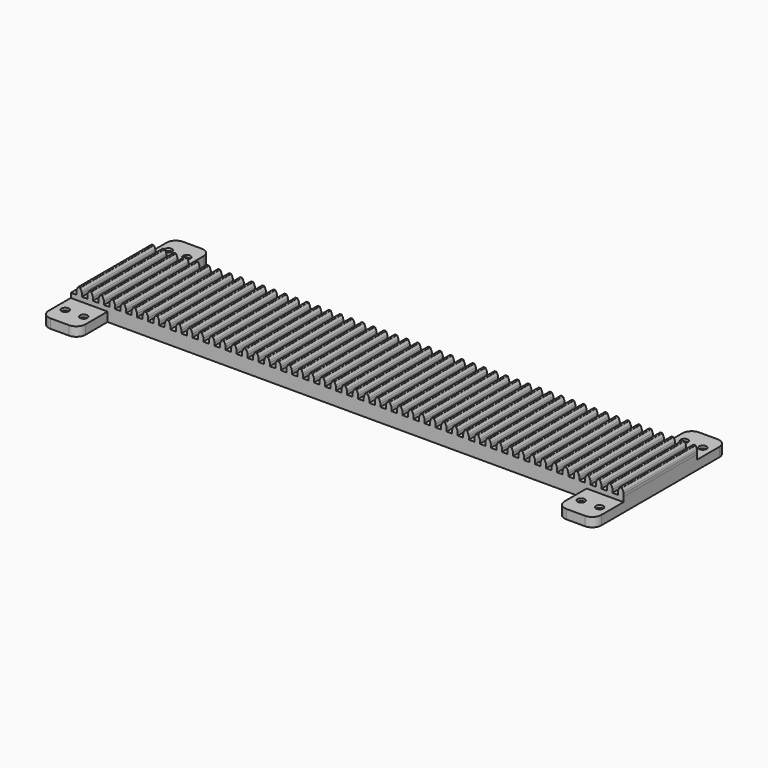
from build123d import *

# Parameters (mm, degrees)
F0_W            = 50.8
F0_H            = 12.7
F1_DEPTH        = 127
F2_W            = 50.8
F2_H            = 12.7
F3_DEPTH        = 50.8
F4_W            = 50.8
F4_H            = 12.7
F5_DEPTH        = 50.8
F6_R            = 12.7
F11_D           = 4.826
F11_CBORE_D     = 10.16
F11_CBORE_DEPTH = 3.3528


with BuildPart() as f1:
    # F0 (on Front) → F1 (new body)
    with BuildSketch(Plane.XZ):
        with BuildLine():
            ThreePointArc((-10.287724, 77.96885), (-11.171676, 76.231681), (-11.947368, 74.443546))
            ThreePointArc((-11.947368, 74.443546), (-12.281947, 73.300054), (-12.397032, 72.11419))
            Line((-12.397032, 72.11419), (-12.40804, 68.172183))
            Line((-12.40804, 68.172183), (-4.78801, 68.172183))
            Line((-4.78801, 68.172183), (-4.777056, 72.094743))
            ThreePointArc((-4.777056, 72.094743), (-4.88921, 73.300784), (-5.228323, 74.463589))
            ThreePointArc((-5.228323, 74.463589), (-6.000617, 76.241399), (-6.879955, 77.96877))
            ThreePointArc((-6.879955, 77.96877), (-7.16919, 78.2678), (-7.570434, 78.377704))
            Line((-7.570434, 78.377704), (-9.597244, 78.377783))
            ThreePointArc((-9.597244, 78.377783), (-9.998489, 78.26788), (-10.287724, 77.96885))
        make_face()
        with BuildLine():
            Line((-4.78801, 68.172183), (-12.40804, 68.172183))
            Line((-12.40804, 68.172183), (-20.02804, 68.172183))
            Line((-20.02804, 68.172183), (-20.02804, 49.122183))
            Line((-20.02804, 49.122183), (691.17199, 49.122183))
            Line((691.17199, 49.122183), (691.17199, 61.822183))
            Line((691.17199, 61.822183), (741.97199, 61.822183))
            Line((741.97199, 61.822183), (741.97199, 68.172183))
            Line((741.97199, 68.172183), (741.982944, 72.094743))
            ThreePointArc((741.982944, 72.094743), (741.87079, 73.300784), (741.531677, 74.463589))
            ThreePointArc((741.531677, 74.463589), (740.759383, 76.241399), (739.880045, 77.96877))
            ThreePointArc((739.880045, 77.96877), (739.59081, 78.2678), (739.189566, 78.377704))
            Line((739.189566, 78.377704), (737.162756, 78.377783))
            ThreePointArc((737.162756, 78.377783), (736.761511, 78.26788), (736.472276, 77.96885))
            ThreePointArc((736.472276, 77.96885), (735.588324, 76.231681), (734.812632, 74.443546))
            ThreePointArc((734.812632, 74.443546), (734.478053, 73.300054), (734.362968, 72.11419))
            Line((734.362968, 72.11419), (734.35196, 68.172183))
            Line((734.35196, 68.172183), (726.73199, 68.172183))
            Line((726.73199, 68.172183), (726.742944, 72.094743))
            ThreePointArc((726.742944, 72.094743), (726.63079, 73.300784), (726.291677, 74.463589))
            ThreePointArc((726.291677, 74.463589), (725.519383, 76.241399), (724.640045, 77.96877))
            ThreePointArc((724.640045, 77.96877), (724.35081, 78.2678), (723.949566, 78.377704))
            Line((723.949566, 78.377704), (721.922756, 78.377783))
            ThreePointArc((721.922756, 78.377783), (721.521511, 78.26788), (721.232276, 77.96885))
            ThreePointArc((721.232276, 77.96885), (720.348324, 76.231681), (719.572632, 74.443546))
            ThreePointArc((719.572632, 74.443546), (719.238053, 73.300054), (719.122968, 72.11419))
            Line((719.122968, 72.11419), (719.11196, 68.172183))
            Line((719.11196, 68.172183), (711.49199, 68.172183))
            Line((711.49199, 68.172183), (703.87196, 68.172183))
            Line((703.87196, 68.172183), (696.25199, 68.172183))
            Line((696.25199, 68.172183), (688.63196, 68.172183))
            Line((688.63196, 68.172183), (681.01199, 68.172183))
            Line((681.01199, 68.172183), (673.39196, 68.172183))
            Line((673.39196, 68.172183), (665.77199, 68.172183))
            Line((665.77199, 68.172183), (658.15196, 68.172183))
            Line((658.15196, 68.172183), (650.53199, 68.172183))
            Line((650.53199, 68.172183), (642.91196, 68.172183))
            Line((642.91196, 68.172183), (635.29199, 68.172183))
            Line((635.29199, 68.172183), (627.67196, 68.172183))
            Line((627.67196, 68.172183), (620.05199, 68.172183))
            Line((620.05199, 68.172183), (612.43196, 68.172183))
            Line((612.43196, 68.172183), (604.81199, 68.172183))
            Line((604.81199, 68.172183), (597.19196, 68.172183))
            Line((597.19196, 68.172183), (589.57199, 68.172183))
            Line((589.57199, 68.172183), (581.95196, 68.172183))
            Line((581.95196, 68.172183), (574.33199, 68.172183))
            Line((574.33199, 68.172183), (566.71196, 68.172183))
            Line((566.71196, 68.172183), (559.09199, 68.172183))
            Line((559.09199, 68.172183), (551.47196, 68.172183))
            Line((551.47196, 68.172183), (543.85199, 68.172183))
            Line((543.85199, 68.172183), (536.23196, 68.172183))
            Line((536.23196, 68.172183), (528.61199, 68.172183))
            Line((528.61199, 68.172183), (520.99196, 68.172183))
            Line((520.99196, 68.172183), (513.37199, 68.172183))
            Line((513.37199, 68.172183), (505.75196, 68.172183))
            Line((505.75196, 68.172183), (498.13199, 68.172183))
            Line((498.13199, 68.172183), (490.51196, 68.172183))
            Line((490.51196, 68.172183), (482.89199, 68.172183))
            Line((482.89199, 68.172183), (475.27196, 68.172183))
            Line((475.27196, 68.172183), (467.65199, 68.172183))
            Line((467.65199, 68.172183), (460.03196, 68.172183))
            Line((460.03196, 68.172183), (452.41199, 68.172183))
            Line((452.41199, 68.172183), (444.79196, 68.172183))
            Line((444.79196, 68.172183), (437.17199, 68.172183))
            Line((437.17199, 68.172183), (429.55196, 68.172183))
            Line((429.55196, 68.172183), (421.93199, 68.172183))
            Line((421.93199, 68.172183), (414.31196, 68.172183))
            Line((414.31196, 68.172183), (406.69199, 68.172183))
            Line((406.69199, 68.172183), (399.07196, 68.172183))
            Line((399.07196, 68.172183), (391.45199, 68.172183))
            Line((391.45199, 68.172183), (383.83196, 68.172183))
            Line((383.83196, 68.172183), (376.21199, 68.172183))
            Line((376.21199, 68.172183), (368.59196, 68.172183))
            Line((368.59196, 68.172183), (360.97199, 68.172183))
            Line((360.97199, 68.172183), (353.35196, 68.172183))
            Line((353.35196, 68.172183), (345.73199, 68.172183))
            Line((345.73199, 68.172183), (338.11196, 68.172183))
            Line((338.11196, 68.172183), (330.49199, 68.172183))
            Line((330.49199, 68.172183), (322.87196, 68.172183))
            Line((322.87196, 68.172183), (315.25199, 68.172183))
            Line((315.25199, 68.172183), (307.63196, 68.172183))
            Line((307.63196, 68.172183), (300.01199, 68.172183))
            Line((300.01199, 68.172183), (292.39196, 68.172183))
            Line((292.39196, 68.172183), (284.77199, 68.172183))
            Line((284.77199, 68.172183), (277.15196, 68.172183))
            Line((277.15196, 68.172183), (269.53199, 68.172183))
            Line((269.53199, 68.172183), (261.91196, 68.172183))
            Line((261.91196, 68.172183), (254.29199, 68.172183))
            Line((254.29199, 68.172183), (246.67196, 68.172183))
            Line((246.67196, 68.172183), (239.05199, 68.172183))
            Line((239.05199, 68.172183), (231.43196, 68.172183))
            Line((231.43196, 68.172183), (223.81199, 68.172183))
            Line((223.81199, 68.172183), (216.19196, 68.172183))
            Line((216.19196, 68.172183), (208.57199, 68.172183))
            Line((208.57199, 68.172183), (200.95196, 68.172183))
            Line((200.95196, 68.172183), (193.33199, 68.172183))
            Line((193.33199, 68.172183), (185.71196, 68.172183))
            Line((185.71196, 68.172183), (178.09199, 68.172183))
            Line((178.09199, 68.172183), (170.47196, 68.172183))
            Line((170.47196, 68.172183), (162.85199, 68.172183))
            Line((162.85199, 68.172183), (155.23196, 68.172183))
            Line((155.23196, 68.172183), (147.61199, 68.172183))
            Line((147.61199, 68.172183), (139.99196, 68.172183))
            Line((139.99196, 68.172183), (132.37199, 68.172183))
            Line((132.37199, 68.172183), (124.75196, 68.172183))
            Line((124.75196, 68.172183), (117.13199, 68.172183))
            Line((117.13199, 68.172183), (109.51196, 68.172183))
            Line((109.51196, 68.172183), (101.89199, 68.172183))
            Line((101.89199, 68.172183), (94.27196, 68.172183))
            Line((94.27196, 68.172183), (86.65199, 68.172183))
            Line((86.65199, 68.172183), (79.03196, 68.172183))
            Line((79.03196, 68.172183), (71.41199, 68.172183))
            Line((71.41199, 68.172183), (63.79196, 68.172183))
            Line((63.79196, 68.172183), (56.17199, 68.172183))
            Line((56.17199, 68.172183), (48.55196, 68.172183))
            Line((48.55196, 68.172183), (40.93199, 68.172183))
            Line((40.93199, 68.172183), (33.31196, 68.172183))
            Line((33.31196, 68.172183), (25.69199, 68.172183))
            Line((25.69199, 68.172183), (18.07196, 68.172183))
            Line((18.07196, 68.172183), (10.45199, 68.172183))
            Line((10.45199, 68.172183), (2.83196, 68.172183))
            Line((2.83196, 68.172183), (-4.78801, 68.172183))
        make_face()
        with BuildLine():
            Line((2.842968, 72.11419), (2.83196, 68.172183))
            Line((2.83196, 68.172183), (10.45199, 68.172183))
            Line((10.45199, 68.172183), (10.462944, 72.094743))
            ThreePointArc((10.462944, 72.094743), (10.35079, 73.300784), (10.011677, 74.463589))
            ThreePointArc((10.011677, 74.463589), (9.239383, 76.241399), (8.360045, 77.96877))
            ThreePointArc((8.360045, 77.96877), (8.07081, 78.2678), (7.669566, 78.377704))
            Line((7.669566, 78.377704), (5.642756, 78.377783))
            ThreePointArc((5.642756, 78.377783), (5.241511, 78.26788), (4.952276, 77.96885))
            ThreePointArc((4.952276, 77.96885), (4.068324, 76.231681), (3.292632, 74.443546))
            ThreePointArc((3.292632, 74.443546), (2.958053, 73.300054), (2.842968, 72.11419))
        make_face()
        with Locations((716.57199, 55.472183)):
            Rectangle(F0_W, F0_H)
        with BuildLine():
            Line((18.082968, 72.11419), (18.07196, 68.172183))
            Line((18.07196, 68.172183), (25.69199, 68.172183))
            Line((25.69199, 68.172183), (25.702944, 72.094743))
            ThreePointArc((25.702944, 72.094743), (25.59079, 73.300784), (25.251677, 74.463589))
            ThreePointArc((25.251677, 74.463589), (24.479383, 76.241399), (23.600045, 77.96877))
            ThreePointArc((23.600045, 77.96877), (23.31081, 78.2678), (22.909566, 78.377704))
            Line((22.909566, 78.377704), (20.882756, 78.377783))
            ThreePointArc((20.882756, 78.377783), (20.481511, 78.26788), (20.192276, 77.96885))
            ThreePointArc((20.192276, 77.96885), (19.308324, 76.231681), (18.532632, 74.443546))
            ThreePointArc((18.532632, 74.443546), (18.198053, 73.300054), (18.082968, 72.11419))
        make_face()
        with BuildLine():
            Line((33.322968, 72.11419), (33.31196, 68.172183))
            Line((33.31196, 68.172183), (40.93199, 68.172183))
            Line((40.93199, 68.172183), (40.942944, 72.094743))
            ThreePointArc((40.942944, 72.094743), (40.83079, 73.300784), (40.491677, 74.463589))
            ThreePointArc((40.491677, 74.463589), (39.719383, 76.241399), (38.840045, 77.96877))
            ThreePointArc((38.840045, 77.96877), (38.55081, 78.2678), (38.149566, 78.377704))
            Line((38.149566, 78.377704), (36.122756, 78.377783))
            ThreePointArc((36.122756, 78.377783), (35.721511, 78.26788), (35.432276, 77.96885))
            ThreePointArc((35.432276, 77.96885), (34.548324, 76.231681), (33.772632, 74.443546))
            ThreePointArc((33.772632, 74.443546), (33.438053, 73.300054), (33.322968, 72.11419))
        make_face()
        with BuildLine():
            Line((48.562968, 72.11419), (48.55196, 68.172183))
            Line((48.55196, 68.172183), (56.17199, 68.172183))
            Line((56.17199, 68.172183), (56.182944, 72.094743))
            ThreePointArc((56.182944, 72.094743), (56.07079, 73.300784), (55.731677, 74.463589))
            ThreePointArc((55.731677, 74.463589), (54.959383, 76.241399), (54.080045, 77.96877))
            ThreePointArc((54.080045, 77.96877), (53.79081, 78.2678), (53.389566, 78.377704))
            Line((53.389566, 78.377704), (51.362756, 78.377783))
            ThreePointArc((51.362756, 78.377783), (50.961511, 78.26788), (50.672276, 77.96885))
            ThreePointArc((50.672276, 77.96885), (49.788324, 76.231681), (49.012632, 74.443546))
            ThreePointArc((49.012632, 74.443546), (48.678053, 73.300054), (48.562968, 72.11419))
        make_face()
        with BuildLine():
            Line((63.802968, 72.11419), (63.79196, 68.172183))
            Line((63.79196, 68.172183), (71.41199, 68.172183))
            Line((71.41199, 68.172183), (71.422944, 72.094743))
            ThreePointArc((71.422944, 72.094743), (71.31079, 73.300784), (70.971677, 74.463589))
            ThreePointArc((70.971677, 74.463589), (70.199383, 76.241399), (69.320045, 77.96877))
            ThreePointArc((69.320045, 77.96877), (69.03081, 78.2678), (68.629566, 78.377704))
            Line((68.629566, 78.377704), (66.602756, 78.377783))
            ThreePointArc((66.602756, 78.377783), (66.201511, 78.26788), (65.912276, 77.96885))
            ThreePointArc((65.912276, 77.96885), (65.028324, 76.231681), (64.252632, 74.443546))
            ThreePointArc((64.252632, 74.443546), (63.918053, 73.300054), (63.802968, 72.11419))
        make_face()
        with BuildLine():
            Line((79.042968, 72.11419), (79.03196, 68.172183))
            Line((79.03196, 68.172183), (86.65199, 68.172183))
            Line((86.65199, 68.172183), (86.662944, 72.094743))
            ThreePointArc((86.662944, 72.094743), (86.55079, 73.300784), (86.211677, 74.463589))
            ThreePointArc((86.211677, 74.463589), (85.439383, 76.241399), (84.560045, 77.96877))
            ThreePointArc((84.560045, 77.96877), (84.27081, 78.2678), (83.869566, 78.377704))
            Line((83.869566, 78.377704), (81.842756, 78.377783))
            ThreePointArc((81.842756, 78.377783), (81.441511, 78.26788), (81.152276, 77.96885))
            ThreePointArc((81.152276, 77.96885), (80.268324, 76.231681), (79.492632, 74.443546))
            ThreePointArc((79.492632, 74.443546), (79.158053, 73.300054), (79.042968, 72.11419))
        make_face()
        with BuildLine():
            Line((94.282968, 72.11419), (94.27196, 68.172183))
            Line((94.27196, 68.172183), (101.89199, 68.172183))
            Line((101.89199, 68.172183), (101.902944, 72.094743))
            ThreePointArc((101.902944, 72.094743), (101.79079, 73.300784), (101.451677, 74.463589))
            ThreePointArc((101.451677, 74.463589), (100.679383, 76.241399), (99.800045, 77.96877))
            ThreePointArc((99.800045, 77.96877), (99.51081, 78.2678), (99.109566, 78.377704))
            Line((99.109566, 78.377704), (97.082756, 78.377783))
            ThreePointArc((97.082756, 78.377783), (96.681511, 78.26788), (96.392276, 77.96885))
            ThreePointArc((96.392276, 77.96885), (95.508324, 76.231681), (94.732632, 74.443546))
            ThreePointArc((94.732632, 74.443546), (94.398053, 73.300054), (94.282968, 72.11419))
        make_face()
        with BuildLine():
            Line((109.522968, 72.11419), (109.51196, 68.172183))
            Line((109.51196, 68.172183), (117.13199, 68.172183))
            Line((117.13199, 68.172183), (117.142944, 72.094743))
            ThreePointArc((117.142944, 72.094743), (117.03079, 73.300784), (116.691677, 74.463589))
            ThreePointArc((116.691677, 74.463589), (115.919383, 76.241399), (115.040045, 77.96877))
            ThreePointArc((115.040045, 77.96877), (114.75081, 78.2678), (114.349566, 78.377704))
            Line((114.349566, 78.377704), (112.322756, 78.377783))
            ThreePointArc((112.322756, 78.377783), (111.921511, 78.26788), (111.632276, 77.96885))
            ThreePointArc((111.632276, 77.96885), (110.748324, 76.231681), (109.972632, 74.443546))
            ThreePointArc((109.972632, 74.443546), (109.638053, 73.300054), (109.522968, 72.11419))
        make_face()
        with BuildLine():
            Line((124.762968, 72.11419), (124.75196, 68.172183))
            Line((124.75196, 68.172183), (132.37199, 68.172183))
            Line((132.37199, 68.172183), (132.382944, 72.094743))
            ThreePointArc((132.382944, 72.094743), (132.27079, 73.300784), (131.931677, 74.463589))
            ThreePointArc((131.931677, 74.463589), (131.159383, 76.241399), (130.280045, 77.96877))
            ThreePointArc((130.280045, 77.96877), (129.99081, 78.2678), (129.589566, 78.377704))
            Line((129.589566, 78.377704), (127.562756, 78.377783))
            ThreePointArc((127.562756, 78.377783), (127.161511, 78.26788), (126.872276, 77.96885))
            ThreePointArc((126.872276, 77.96885), (125.988324, 76.231681), (125.212632, 74.443546))
            ThreePointArc((125.212632, 74.443546), (124.878053, 73.300054), (124.762968, 72.11419))
        make_face()
        with BuildLine():
            Line((140.002968, 72.11419), (139.99196, 68.172183))
            Line((139.99196, 68.172183), (147.61199, 68.172183))
            Line((147.61199, 68.172183), (147.622944, 72.094743))
            ThreePointArc((147.622944, 72.094743), (147.51079, 73.300784), (147.171677, 74.463589))
            ThreePointArc((147.171677, 74.463589), (146.399383, 76.241399), (145.520045, 77.96877))
            ThreePointArc((145.520045, 77.96877), (145.23081, 78.2678), (144.829566, 78.377704))
            Line((144.829566, 78.377704), (142.802756, 78.377783))
            ThreePointArc((142.802756, 78.377783), (142.401511, 78.26788), (142.112276, 77.96885))
            ThreePointArc((142.112276, 77.96885), (141.228324, 76.231681), (140.452632, 74.443546))
            ThreePointArc((140.452632, 74.443546), (140.118053, 73.300054), (140.002968, 72.11419))
        make_face()
        with BuildLine():
            Line((155.242968, 72.11419), (155.23196, 68.172183))
            Line((155.23196, 68.172183), (162.85199, 68.172183))
            Line((162.85199, 68.172183), (162.862944, 72.094743))
            ThreePointArc((162.862944, 72.094743), (162.75079, 73.300784), (162.411677, 74.463589))
            ThreePointArc((162.411677, 74.463589), (161.639383, 76.241399), (160.760045, 77.96877))
            ThreePointArc((160.760045, 77.96877), (160.47081, 78.2678), (160.069566, 78.377704))
            Line((160.069566, 78.377704), (158.042756, 78.377783))
            ThreePointArc((158.042756, 78.377783), (157.641511, 78.26788), (157.352276, 77.96885))
            ThreePointArc((157.352276, 77.96885), (156.468324, 76.231681), (155.692632, 74.443546))
            ThreePointArc((155.692632, 74.443546), (155.358053, 73.300054), (155.242968, 72.11419))
        make_face()
        with BuildLine():
            Line((170.482968, 72.11419), (170.47196, 68.172183))
            Line((170.47196, 68.172183), (178.09199, 68.172183))
            Line((178.09199, 68.172183), (178.102944, 72.094743))
            ThreePointArc((178.102944, 72.094743), (177.99079, 73.300784), (177.651677, 74.463589))
            ThreePointArc((177.651677, 74.463589), (176.879383, 76.241399), (176.000045, 77.96877))
            ThreePointArc((176.000045, 77.96877), (175.71081, 78.2678), (175.309566, 78.377704))
            Line((175.309566, 78.377704), (173.282756, 78.377783))
            ThreePointArc((173.282756, 78.377783), (172.881511, 78.26788), (172.592276, 77.96885))
            ThreePointArc((172.592276, 77.96885), (171.708324, 76.231681), (170.932632, 74.443546))
            ThreePointArc((170.932632, 74.443546), (170.598053, 73.300054), (170.482968, 72.11419))
        make_face()
        with BuildLine():
            Line((185.722968, 72.11419), (185.71196, 68.172183))
            Line((185.71196, 68.172183), (193.33199, 68.172183))
            Line((193.33199, 68.172183), (193.342944, 72.094743))
            ThreePointArc((193.342944, 72.094743), (193.23079, 73.300784), (192.891677, 74.463589))
            ThreePointArc((192.891677, 74.463589), (192.119383, 76.241399), (191.240045, 77.96877))
            ThreePointArc((191.240045, 77.96877), (190.95081, 78.2678), (190.549566, 78.377704))
            Line((190.549566, 78.377704), (188.522756, 78.377783))
            ThreePointArc((188.522756, 78.377783), (188.121511, 78.26788), (187.832276, 77.96885))
            ThreePointArc((187.832276, 77.96885), (186.948324, 76.231681), (186.172632, 74.443546))
            ThreePointArc((186.172632, 74.443546), (185.838053, 73.300054), (185.722968, 72.11419))
        make_face()
        with BuildLine():
            Line((703.87196, 68.172183), (711.49199, 68.172183))
            Line((711.49199, 68.172183), (711.502944, 72.094743))
            ThreePointArc((711.502944, 72.094743), (711.39079, 73.300784), (711.051677, 74.463589))
            ThreePointArc((711.051677, 74.463589), (710.279383, 76.241399), (709.400045, 77.96877))
            ThreePointArc((709.400045, 77.96877), (709.11081, 78.2678), (708.709566, 78.377704))
            Line((708.709566, 78.377704), (706.682756, 78.377783))
            ThreePointArc((706.682756, 78.377783), (706.281511, 78.26788), (705.992276, 77.96885))
            ThreePointArc((705.992276, 77.96885), (705.108324, 76.231681), (704.332632, 74.443546))
            ThreePointArc((704.332632, 74.443546), (703.998053, 73.300054), (703.882968, 72.11419))
            Line((703.882968, 72.11419), (703.87196, 68.172183))
        make_face()
        with BuildLine():
            Line((200.962968, 72.11419), (200.95196, 68.172183))
            Line((200.95196, 68.172183), (208.57199, 68.172183))
            Line((208.57199, 68.172183), (208.582944, 72.094743))
            ThreePointArc((208.582944, 72.094743), (208.47079, 73.300784), (208.131677, 74.463589))
            ThreePointArc((208.131677, 74.463589), (207.359383, 76.241399), (206.480045, 77.96877))
            ThreePointArc((206.480045, 77.96877), (206.19081, 78.2678), (205.789566, 78.377704))
            Line((205.789566, 78.377704), (203.762756, 78.377783))
            ThreePointArc((203.762756, 78.377783), (203.361511, 78.26788), (203.072276, 77.96885))
            ThreePointArc((203.072276, 77.96885), (202.188324, 76.231681), (201.412632, 74.443546))
            ThreePointArc((201.412632, 74.443546), (201.078053, 73.300054), (200.962968, 72.11419))
        make_face()
        with BuildLine():
            Line((688.63196, 68.172183), (696.25199, 68.172183))
            Line((696.25199, 68.172183), (696.262944, 72.094743))
            ThreePointArc((696.262944, 72.094743), (696.15079, 73.300784), (695.811677, 74.463589))
            ThreePointArc((695.811677, 74.463589), (695.039383, 76.241399), (694.160045, 77.96877))
            ThreePointArc((694.160045, 77.96877), (693.87081, 78.2678), (693.469566, 78.377704))
            Line((693.469566, 78.377704), (691.442756, 78.377783))
            ThreePointArc((691.442756, 78.377783), (691.041511, 78.26788), (690.752276, 77.96885))
            ThreePointArc((690.752276, 77.96885), (689.868324, 76.231681), (689.092632, 74.443546))
            ThreePointArc((689.092632, 74.443546), (688.758053, 73.300054), (688.642968, 72.11419))
            Line((688.642968, 72.11419), (688.63196, 68.172183))
        make_face()
        with BuildLine():
            Line((216.202968, 72.11419), (216.19196, 68.172183))
            Line((216.19196, 68.172183), (223.81199, 68.172183))
            Line((223.81199, 68.172183), (223.822944, 72.094743))
            ThreePointArc((223.822944, 72.094743), (223.71079, 73.300784), (223.371677, 74.463589))
            ThreePointArc((223.371677, 74.463589), (222.599383, 76.241399), (221.720045, 77.96877))
            ThreePointArc((221.720045, 77.96877), (221.43081, 78.2678), (221.029566, 78.377704))
            Line((221.029566, 78.377704), (219.002756, 78.377783))
            ThreePointArc((219.002756, 78.377783), (218.601511, 78.26788), (218.312276, 77.96885))
            ThreePointArc((218.312276, 77.96885), (217.428324, 76.231681), (216.652632, 74.443546))
            ThreePointArc((216.652632, 74.443546), (216.318053, 73.300054), (216.202968, 72.11419))
        make_face()
        with BuildLine():
            Line((673.39196, 68.172183), (681.01199, 68.172183))
            Line((681.01199, 68.172183), (681.022944, 72.094743))
            ThreePointArc((681.022944, 72.094743), (680.91079, 73.300784), (680.571677, 74.463589))
            ThreePointArc((680.571677, 74.463589), (679.799383, 76.241399), (678.920045, 77.96877))
            ThreePointArc((678.920045, 77.96877), (678.63081, 78.2678), (678.229566, 78.377704))
            Line((678.229566, 78.377704), (676.202756, 78.377783))
            ThreePointArc((676.202756, 78.377783), (675.801511, 78.26788), (675.512276, 77.96885))
            ThreePointArc((675.512276, 77.96885), (674.628324, 76.231681), (673.852632, 74.443546))
            ThreePointArc((673.852632, 74.443546), (673.518053, 73.300054), (673.402968, 72.11419))
            Line((673.402968, 72.11419), (673.39196, 68.172183))
        make_face()
        with BuildLine():
            Line((231.442968, 72.11419), (231.43196, 68.172183))
            Line((231.43196, 68.172183), (239.05199, 68.172183))
            Line((239.05199, 68.172183), (239.062944, 72.094743))
            ThreePointArc((239.062944, 72.094743), (238.95079, 73.300784), (238.611677, 74.463589))
            ThreePointArc((238.611677, 74.463589), (237.839383, 76.241399), (236.960045, 77.96877))
            ThreePointArc((236.960045, 77.96877), (236.67081, 78.2678), (236.269566, 78.377704))
            Line((236.269566, 78.377704), (234.242756, 78.377783))
            ThreePointArc((234.242756, 78.377783), (233.841511, 78.26788), (233.552276, 77.96885))
            ThreePointArc((233.552276, 77.96885), (232.668324, 76.231681), (231.892632, 74.443546))
            ThreePointArc((231.892632, 74.443546), (231.558053, 73.300054), (231.442968, 72.11419))
        make_face()
        with BuildLine():
            Line((658.15196, 68.172183), (665.77199, 68.172183))
            Line((665.77199, 68.172183), (665.782944, 72.094743))
            ThreePointArc((665.782944, 72.094743), (665.67079, 73.300784), (665.331677, 74.463589))
            ThreePointArc((665.331677, 74.463589), (664.559383, 76.241399), (663.680045, 77.96877))
            ThreePointArc((663.680045, 77.96877), (663.39081, 78.2678), (662.989566, 78.377704))
            Line((662.989566, 78.377704), (660.962756, 78.377783))
            ThreePointArc((660.962756, 78.377783), (660.561511, 78.26788), (660.272276, 77.96885))
            ThreePointArc((660.272276, 77.96885), (659.388324, 76.231681), (658.612632, 74.443546))
            ThreePointArc((658.612632, 74.443546), (658.278053, 73.300054), (658.162968, 72.11419))
            Line((658.162968, 72.11419), (658.15196, 68.172183))
        make_face()
        with BuildLine():
            Line((246.682968, 72.11419), (246.67196, 68.172183))
            Line((246.67196, 68.172183), (254.29199, 68.172183))
            Line((254.29199, 68.172183), (254.302944, 72.094743))
            ThreePointArc((254.302944, 72.094743), (254.19079, 73.300784), (253.851677, 74.463589))
            ThreePointArc((253.851677, 74.463589), (253.079383, 76.241399), (252.200045, 77.96877))
            ThreePointArc((252.200045, 77.96877), (251.91081, 78.2678), (251.509566, 78.377704))
            Line((251.509566, 78.377704), (249.482756, 78.377783))
            ThreePointArc((249.482756, 78.377783), (249.081511, 78.26788), (248.792276, 77.96885))
            ThreePointArc((248.792276, 77.96885), (247.908324, 76.231681), (247.132632, 74.443546))
            ThreePointArc((247.132632, 74.443546), (246.798053, 73.300054), (246.682968, 72.11419))
        make_face()
        with BuildLine():
            Line((642.91196, 68.172183), (650.53199, 68.172183))
            Line((650.53199, 68.172183), (650.542944, 72.094743))
            ThreePointArc((650.542944, 72.094743), (650.43079, 73.300784), (650.091677, 74.463589))
            ThreePointArc((650.091677, 74.463589), (649.319383, 76.241399), (648.440045, 77.96877))
            ThreePointArc((648.440045, 77.96877), (648.15081, 78.2678), (647.749566, 78.377704))
            Line((647.749566, 78.377704), (645.722756, 78.377783))
            ThreePointArc((645.722756, 78.377783), (645.321511, 78.26788), (645.032276, 77.96885))
            ThreePointArc((645.032276, 77.96885), (644.148324, 76.231681), (643.372632, 74.443546))
            ThreePointArc((643.372632, 74.443546), (643.038053, 73.300054), (642.922968, 72.11419))
            Line((642.922968, 72.11419), (642.91196, 68.172183))
        make_face()
        with BuildLine():
            Line((261.922968, 72.11419), (261.91196, 68.172183))
            Line((261.91196, 68.172183), (269.53199, 68.172183))
            Line((269.53199, 68.172183), (269.542944, 72.094743))
            ThreePointArc((269.542944, 72.094743), (269.43079, 73.300784), (269.091677, 74.463589))
            ThreePointArc((269.091677, 74.463589), (268.319383, 76.241399), (267.440045, 77.96877))
            ThreePointArc((267.440045, 77.96877), (267.15081, 78.2678), (266.749566, 78.377704))
            Line((266.749566, 78.377704), (264.722756, 78.377783))
            ThreePointArc((264.722756, 78.377783), (264.321511, 78.26788), (264.032276, 77.96885))
            ThreePointArc((264.032276, 77.96885), (263.148324, 76.231681), (262.372632, 74.443546))
            ThreePointArc((262.372632, 74.443546), (262.038053, 73.300054), (261.922968, 72.11419))
        make_face()
        with BuildLine():
            Line((627.67196, 68.172183), (635.29199, 68.172183))
            Line((635.29199, 68.172183), (635.302944, 72.094743))
            ThreePointArc((635.302944, 72.094743), (635.19079, 73.300784), (634.851677, 74.463589))
            ThreePointArc((634.851677, 74.463589), (634.079383, 76.241399), (633.200045, 77.96877))
            ThreePointArc((633.200045, 77.96877), (632.91081, 78.2678), (632.509566, 78.377704))
            Line((632.509566, 78.377704), (630.482756, 78.377783))
            ThreePointArc((630.482756, 78.377783), (630.081511, 78.26788), (629.792276, 77.96885))
            ThreePointArc((629.792276, 77.96885), (628.908324, 76.231681), (628.132632, 74.443546))
            ThreePointArc((628.132632, 74.443546), (627.798053, 73.300054), (627.682968, 72.11419))
            Line((627.682968, 72.11419), (627.67196, 68.172183))
        make_face()
        with BuildLine():
            Line((277.162968, 72.11419), (277.15196, 68.172183))
            Line((277.15196, 68.172183), (284.77199, 68.172183))
            Line((284.77199, 68.172183), (284.782944, 72.094743))
            ThreePointArc((284.782944, 72.094743), (284.67079, 73.300784), (284.331677, 74.463589))
            ThreePointArc((284.331677, 74.463589), (283.559383, 76.241399), (282.680045, 77.96877))
            ThreePointArc((282.680045, 77.96877), (282.39081, 78.2678), (281.989566, 78.377704))
            Line((281.989566, 78.377704), (279.962756, 78.377783))
            ThreePointArc((279.962756, 78.377783), (279.561511, 78.26788), (279.272276, 77.96885))
            ThreePointArc((279.272276, 77.96885), (278.388324, 76.231681), (277.612632, 74.443546))
            ThreePointArc((277.612632, 74.443546), (277.278053, 73.300054), (277.162968, 72.11419))
        make_face()
        with BuildLine():
            Line((612.43196, 68.172183), (620.05199, 68.172183))
            Line((620.05199, 68.172183), (620.062944, 72.094743))
            ThreePointArc((620.062944, 72.094743), (619.95079, 73.300784), (619.611677, 74.463589))
            ThreePointArc((619.611677, 74.463589), (618.839383, 76.241399), (617.960045, 77.96877))
            ThreePointArc((617.960045, 77.96877), (617.67081, 78.2678), (617.269566, 78.377704))
            Line((617.269566, 78.377704), (615.242756, 78.377783))
            ThreePointArc((615.242756, 78.377783), (614.841511, 78.26788), (614.552276, 77.96885))
            ThreePointArc((614.552276, 77.96885), (613.668324, 76.231681), (612.892632, 74.443546))
            ThreePointArc((612.892632, 74.443546), (612.558053, 73.300054), (612.442968, 72.11419))
            Line((612.442968, 72.11419), (612.43196, 68.172183))
        make_face()
        with BuildLine():
            Line((292.402968, 72.11419), (292.39196, 68.172183))
            Line((292.39196, 68.172183), (300.01199, 68.172183))
            Line((300.01199, 68.172183), (300.022944, 72.094743))
            ThreePointArc((300.022944, 72.094743), (299.91079, 73.300784), (299.571677, 74.463589))
            ThreePointArc((299.571677, 74.463589), (298.799383, 76.241399), (297.920045, 77.96877))
            ThreePointArc((297.920045, 77.96877), (297.63081, 78.2678), (297.229566, 78.377704))
            Line((297.229566, 78.377704), (295.202756, 78.377783))
            ThreePointArc((295.202756, 78.377783), (294.801511, 78.26788), (294.512276, 77.96885))
            ThreePointArc((294.512276, 77.96885), (293.628324, 76.231681), (292.852632, 74.443546))
            ThreePointArc((292.852632, 74.443546), (292.518053, 73.300054), (292.402968, 72.11419))
        make_face()
        with BuildLine():
            Line((597.19196, 68.172183), (604.81199, 68.172183))
            Line((604.81199, 68.172183), (604.822944, 72.094743))
            ThreePointArc((604.822944, 72.094743), (604.71079, 73.300784), (604.371677, 74.463589))
            ThreePointArc((604.371677, 74.463589), (603.599383, 76.241399), (602.720045, 77.96877))
            ThreePointArc((602.720045, 77.96877), (602.43081, 78.2678), (602.029566, 78.377704))
            Line((602.029566, 78.377704), (600.002756, 78.377783))
            ThreePointArc((600.002756, 78.377783), (599.601511, 78.26788), (599.312276, 77.96885))
            ThreePointArc((599.312276, 77.96885), (598.428324, 76.231681), (597.652632, 74.443546))
            ThreePointArc((597.652632, 74.443546), (597.318053, 73.300054), (597.202968, 72.11419))
            Line((597.202968, 72.11419), (597.19196, 68.172183))
        make_face()
        with BuildLine():
            Line((307.642968, 72.11419), (307.63196, 68.172183))
            Line((307.63196, 68.172183), (315.25199, 68.172183))
            Line((315.25199, 68.172183), (315.262944, 72.094743))
            ThreePointArc((315.262944, 72.094743), (315.15079, 73.300784), (314.811677, 74.463589))
            ThreePointArc((314.811677, 74.463589), (314.039383, 76.241399), (313.160045, 77.96877))
            ThreePointArc((313.160045, 77.96877), (312.87081, 78.2678), (312.469566, 78.377704))
            Line((312.469566, 78.377704), (310.442756, 78.377783))
            ThreePointArc((310.442756, 78.377783), (310.041511, 78.26788), (309.752276, 77.96885))
            ThreePointArc((309.752276, 77.96885), (308.868324, 76.231681), (308.092632, 74.443546))
            ThreePointArc((308.092632, 74.443546), (307.758053, 73.300054), (307.642968, 72.11419))
        make_face()
        with BuildLine():
            Line((581.95196, 68.172183), (589.57199, 68.172183))
            Line((589.57199, 68.172183), (589.582944, 72.094743))
            ThreePointArc((589.582944, 72.094743), (589.47079, 73.300784), (589.131677, 74.463589))
            ThreePointArc((589.131677, 74.463589), (588.359383, 76.241399), (587.480045, 77.96877))
            ThreePointArc((587.480045, 77.96877), (587.19081, 78.2678), (586.789566, 78.377704))
            Line((586.789566, 78.377704), (584.762756, 78.377783))
            ThreePointArc((584.762756, 78.377783), (584.361511, 78.26788), (584.072276, 77.96885))
            ThreePointArc((584.072276, 77.96885), (583.188324, 76.231681), (582.412632, 74.443546))
            ThreePointArc((582.412632, 74.443546), (582.078053, 73.300054), (581.962968, 72.11419))
            Line((581.962968, 72.11419), (581.95196, 68.172183))
        make_face()
        with BuildLine():
            Line((322.882968, 72.11419), (322.87196, 68.172183))
            Line((322.87196, 68.172183), (330.49199, 68.172183))
            Line((330.49199, 68.172183), (330.502944, 72.094743))
            ThreePointArc((330.502944, 72.094743), (330.39079, 73.300784), (330.051677, 74.463589))
            ThreePointArc((330.051677, 74.463589), (329.279383, 76.241399), (328.400045, 77.96877))
            ThreePointArc((328.400045, 77.96877), (328.11081, 78.2678), (327.709566, 78.377704))
            Line((327.709566, 78.377704), (325.682756, 78.377783))
            ThreePointArc((325.682756, 78.377783), (325.281511, 78.26788), (324.992276, 77.96885))
            ThreePointArc((324.992276, 77.96885), (324.108324, 76.231681), (323.332632, 74.443546))
            ThreePointArc((323.332632, 74.443546), (322.998053, 73.300054), (322.882968, 72.11419))
        make_face()
        with BuildLine():
            Line((566.71196, 68.172183), (574.33199, 68.172183))
            Line((574.33199, 68.172183), (574.342944, 72.094743))
            ThreePointArc((574.342944, 72.094743), (574.23079, 73.300784), (573.891677, 74.463589))
            ThreePointArc((573.891677, 74.463589), (573.119383, 76.241399), (572.240045, 77.96877))
            ThreePointArc((572.240045, 77.96877), (571.95081, 78.2678), (571.549566, 78.377704))
            Line((571.549566, 78.377704), (569.522756, 78.377783))
            ThreePointArc((569.522756, 78.377783), (569.121511, 78.26788), (568.832276, 77.96885))
            ThreePointArc((568.832276, 77.96885), (567.948324, 76.231681), (567.172632, 74.443546))
            ThreePointArc((567.172632, 74.443546), (566.838053, 73.300054), (566.722968, 72.11419))
            Line((566.722968, 72.11419), (566.71196, 68.172183))
        make_face()
        with BuildLine():
            Line((338.122968, 72.11419), (338.11196, 68.172183))
            Line((338.11196, 68.172183), (345.73199, 68.172183))
            Line((345.73199, 68.172183), (345.742944, 72.094743))
            ThreePointArc((345.742944, 72.094743), (345.63079, 73.300784), (345.291677, 74.463589))
            ThreePointArc((345.291677, 74.463589), (344.519383, 76.241399), (343.640045, 77.96877))
            ThreePointArc((343.640045, 77.96877), (343.35081, 78.2678), (342.949566, 78.377704))
            Line((342.949566, 78.377704), (340.922756, 78.377783))
            ThreePointArc((340.922756, 78.377783), (340.521511, 78.26788), (340.232276, 77.96885))
            ThreePointArc((340.232276, 77.96885), (339.348324, 76.231681), (338.572632, 74.443546))
            ThreePointArc((338.572632, 74.443546), (338.238053, 73.300054), (338.122968, 72.11419))
        make_face()
        with BuildLine():
            Line((551.47196, 68.172183), (559.09199, 68.172183))
            Line((559.09199, 68.172183), (559.102944, 72.094743))
            ThreePointArc((559.102944, 72.094743), (558.99079, 73.300784), (558.651677, 74.463589))
            ThreePointArc((558.651677, 74.463589), (557.879383, 76.241399), (557.000045, 77.96877))
            ThreePointArc((557.000045, 77.96877), (556.71081, 78.2678), (556.309566, 78.377704))
            Line((556.309566, 78.377704), (554.282756, 78.377783))
            ThreePointArc((554.282756, 78.377783), (553.881511, 78.26788), (553.592276, 77.96885))
            ThreePointArc((553.592276, 77.96885), (552.708324, 76.231681), (551.932632, 74.443546))
            ThreePointArc((551.932632, 74.443546), (551.598053, 73.300054), (551.482968, 72.11419))
            Line((551.482968, 72.11419), (551.47196, 68.172183))
        make_face()
        with BuildLine():
            Line((353.362968, 72.11419), (353.35196, 68.172183))
            Line((353.35196, 68.172183), (360.97199, 68.172183))
            Line((360.97199, 68.172183), (360.982944, 72.094743))
            ThreePointArc((360.982944, 72.094743), (360.87079, 73.300784), (360.531677, 74.463589))
            ThreePointArc((360.531677, 74.463589), (359.759383, 76.241399), (358.880045, 77.96877))
            ThreePointArc((358.880045, 77.96877), (358.59081, 78.2678), (358.189566, 78.377704))
            Line((358.189566, 78.377704), (356.162756, 78.377783))
            ThreePointArc((356.162756, 78.377783), (355.761511, 78.26788), (355.472276, 77.96885))
            ThreePointArc((355.472276, 77.96885), (354.588324, 76.231681), (353.812632, 74.443546))
            ThreePointArc((353.812632, 74.443546), (353.478053, 73.300054), (353.362968, 72.11419))
        make_face()
        with BuildLine():
            Line((536.23196, 68.172183), (543.85199, 68.172183))
            Line((543.85199, 68.172183), (543.862944, 72.094743))
            ThreePointArc((543.862944, 72.094743), (543.75079, 73.300784), (543.411677, 74.463589))
            ThreePointArc((543.411677, 74.463589), (542.639383, 76.241399), (541.760045, 77.96877))
            ThreePointArc((541.760045, 77.96877), (541.47081, 78.2678), (541.069566, 78.377704))
            Line((541.069566, 78.377704), (539.042756, 78.377783))
            ThreePointArc((539.042756, 78.377783), (538.641511, 78.26788), (538.352276, 77.96885))
            ThreePointArc((538.352276, 77.96885), (537.468324, 76.231681), (536.692632, 74.443546))
            ThreePointArc((536.692632, 74.443546), (536.358053, 73.300054), (536.242968, 72.11419))
            Line((536.242968, 72.11419), (536.23196, 68.172183))
        make_face()
        with BuildLine():
            Line((368.602968, 72.11419), (368.59196, 68.172183))
            Line((368.59196, 68.172183), (376.21199, 68.172183))
            Line((376.21199, 68.172183), (376.222944, 72.094743))
            ThreePointArc((376.222944, 72.094743), (376.11079, 73.300784), (375.771677, 74.463589))
            ThreePointArc((375.771677, 74.463589), (374.999383, 76.241399), (374.120045, 77.96877))
            ThreePointArc((374.120045, 77.96877), (373.83081, 78.2678), (373.429566, 78.377704))
            Line((373.429566, 78.377704), (371.402756, 78.377783))
            ThreePointArc((371.402756, 78.377783), (371.001511, 78.26788), (370.712276, 77.96885))
            ThreePointArc((370.712276, 77.96885), (369.828324, 76.231681), (369.052632, 74.443546))
            ThreePointArc((369.052632, 74.443546), (368.718053, 73.300054), (368.602968, 72.11419))
        make_face()
        with BuildLine():
            Line((520.99196, 68.172183), (528.61199, 68.172183))
            Line((528.61199, 68.172183), (528.622944, 72.094743))
            ThreePointArc((528.622944, 72.094743), (528.51079, 73.300784), (528.171677, 74.463589))
            ThreePointArc((528.171677, 74.463589), (527.399383, 76.241399), (526.520045, 77.96877))
            ThreePointArc((526.520045, 77.96877), (526.23081, 78.2678), (525.829566, 78.377704))
            Line((525.829566, 78.377704), (523.802756, 78.377783))
            ThreePointArc((523.802756, 78.377783), (523.401511, 78.26788), (523.112276, 77.96885))
            ThreePointArc((523.112276, 77.96885), (522.228324, 76.231681), (521.452632, 74.443546))
            ThreePointArc((521.452632, 74.443546), (521.118053, 73.300054), (521.002968, 72.11419))
            Line((521.002968, 72.11419), (520.99196, 68.172183))
        make_face()
        with BuildLine():
            Line((383.842968, 72.11419), (383.83196, 68.172183))
            Line((383.83196, 68.172183), (391.45199, 68.172183))
            Line((391.45199, 68.172183), (391.462944, 72.094743))
            ThreePointArc((391.462944, 72.094743), (391.35079, 73.300784), (391.011677, 74.463589))
            ThreePointArc((391.011677, 74.463589), (390.239383, 76.241399), (389.360045, 77.96877))
            ThreePointArc((389.360045, 77.96877), (389.07081, 78.2678), (388.669566, 78.377704))
            Line((388.669566, 78.377704), (386.642756, 78.377783))
            ThreePointArc((386.642756, 78.377783), (386.241511, 78.26788), (385.952276, 77.96885))
            ThreePointArc((385.952276, 77.96885), (385.068324, 76.231681), (384.292632, 74.443546))
            ThreePointArc((384.292632, 74.443546), (383.958053, 73.300054), (383.842968, 72.11419))
        make_face()
        with BuildLine():
            Line((505.75196, 68.172183), (513.37199, 68.172183))
            Line((513.37199, 68.172183), (513.382944, 72.094743))
            ThreePointArc((513.382944, 72.094743), (513.27079, 73.300784), (512.931677, 74.463589))
            ThreePointArc((512.931677, 74.463589), (512.159383, 76.241399), (511.280045, 77.96877))
            ThreePointArc((511.280045, 77.96877), (510.99081, 78.2678), (510.589566, 78.377704))
            Line((510.589566, 78.377704), (508.562756, 78.377783))
            ThreePointArc((508.562756, 78.377783), (508.161511, 78.26788), (507.872276, 77.96885))
            ThreePointArc((507.872276, 77.96885), (506.988324, 76.231681), (506.212632, 74.443546))
            ThreePointArc((506.212632, 74.443546), (505.878053, 73.300054), (505.762968, 72.11419))
            Line((505.762968, 72.11419), (505.75196, 68.172183))
        make_face()
        with BuildLine():
            Line((399.082968, 72.11419), (399.07196, 68.172183))
            Line((399.07196, 68.172183), (406.69199, 68.172183))
            Line((406.69199, 68.172183), (406.702944, 72.094743))
            ThreePointArc((406.702944, 72.094743), (406.59079, 73.300784), (406.251677, 74.463589))
            ThreePointArc((406.251677, 74.463589), (405.479383, 76.241399), (404.600045, 77.96877))
            ThreePointArc((404.600045, 77.96877), (404.31081, 78.2678), (403.909566, 78.377704))
            Line((403.909566, 78.377704), (401.882756, 78.377783))
            ThreePointArc((401.882756, 78.377783), (401.481511, 78.26788), (401.192276, 77.96885))
            ThreePointArc((401.192276, 77.96885), (400.308324, 76.231681), (399.532632, 74.443546))
            ThreePointArc((399.532632, 74.443546), (399.198053, 73.300054), (399.082968, 72.11419))
        make_face()
        with BuildLine():
            Line((490.51196, 68.172183), (498.13199, 68.172183))
            Line((498.13199, 68.172183), (498.142944, 72.094743))
            ThreePointArc((498.142944, 72.094743), (498.03079, 73.300784), (497.691677, 74.463589))
            ThreePointArc((497.691677, 74.463589), (496.919383, 76.241399), (496.040045, 77.96877))
            ThreePointArc((496.040045, 77.96877), (495.75081, 78.2678), (495.349566, 78.377704))
            Line((495.349566, 78.377704), (493.322756, 78.377783))
            ThreePointArc((493.322756, 78.377783), (492.921511, 78.26788), (492.632276, 77.96885))
            ThreePointArc((492.632276, 77.96885), (491.748324, 76.231681), (490.972632, 74.443546))
            ThreePointArc((490.972632, 74.443546), (490.638053, 73.300054), (490.522968, 72.11419))
            Line((490.522968, 72.11419), (490.51196, 68.172183))
        make_face()
        with BuildLine():
            Line((414.322968, 72.11419), (414.31196, 68.172183))
            Line((414.31196, 68.172183), (421.93199, 68.172183))
            Line((421.93199, 68.172183), (421.942944, 72.094743))
            ThreePointArc((421.942944, 72.094743), (421.83079, 73.300784), (421.491677, 74.463589))
            ThreePointArc((421.491677, 74.463589), (420.719383, 76.241399), (419.840045, 77.96877))
            ThreePointArc((419.840045, 77.96877), (419.55081, 78.2678), (419.149566, 78.377704))
            Line((419.149566, 78.377704), (417.122756, 78.377783))
            ThreePointArc((417.122756, 78.377783), (416.721511, 78.26788), (416.432276, 77.96885))
            ThreePointArc((416.432276, 77.96885), (415.548324, 76.231681), (414.772632, 74.443546))
            ThreePointArc((414.772632, 74.443546), (414.438053, 73.300054), (414.322968, 72.11419))
        make_face()
        with BuildLine():
            Line((475.27196, 68.172183), (482.89199, 68.172183))
            Line((482.89199, 68.172183), (482.902944, 72.094743))
            ThreePointArc((482.902944, 72.094743), (482.79079, 73.300784), (482.451677, 74.463589))
            ThreePointArc((482.451677, 74.463589), (481.679383, 76.241399), (480.800045, 77.96877))
            ThreePointArc((480.800045, 77.96877), (480.51081, 78.2678), (480.109566, 78.377704))
            Line((480.109566, 78.377704), (478.082756, 78.377783))
            ThreePointArc((478.082756, 78.377783), (477.681511, 78.26788), (477.392276, 77.96885))
            ThreePointArc((477.392276, 77.96885), (476.508324, 76.231681), (475.732632, 74.443546))
            ThreePointArc((475.732632, 74.443546), (475.398053, 73.300054), (475.282968, 72.11419))
            Line((475.282968, 72.11419), (475.27196, 68.172183))
        make_face()
        with BuildLine():
            Line((429.562968, 72.11419), (429.55196, 68.172183))
            Line((429.55196, 68.172183), (437.17199, 68.172183))
            Line((437.17199, 68.172183), (437.182944, 72.094743))
            ThreePointArc((437.182944, 72.094743), (437.07079, 73.300784), (436.731677, 74.463589))
            ThreePointArc((436.731677, 74.463589), (435.959383, 76.241399), (435.080045, 77.96877))
            ThreePointArc((435.080045, 77.96877), (434.79081, 78.2678), (434.389566, 78.377704))
            Line((434.389566, 78.377704), (432.362756, 78.377783))
            ThreePointArc((432.362756, 78.377783), (431.961511, 78.26788), (431.672276, 77.96885))
            ThreePointArc((431.672276, 77.96885), (430.788324, 76.231681), (430.012632, 74.443546))
            ThreePointArc((430.012632, 74.443546), (429.678053, 73.300054), (429.562968, 72.11419))
        make_face()
        with BuildLine():
            Line((460.03196, 68.172183), (467.65199, 68.172183))
            Line((467.65199, 68.172183), (467.662944, 72.094743))
            ThreePointArc((467.662944, 72.094743), (467.55079, 73.300784), (467.211677, 74.463589))
            ThreePointArc((467.211677, 74.463589), (466.439383, 76.241399), (465.560045, 77.96877))
            ThreePointArc((465.560045, 77.96877), (465.27081, 78.2678), (464.869566, 78.377704))
            Line((464.869566, 78.377704), (462.842756, 78.377783))
            ThreePointArc((462.842756, 78.377783), (462.441511, 78.26788), (462.152276, 77.96885))
            ThreePointArc((462.152276, 77.96885), (461.268324, 76.231681), (460.492632, 74.443546))
            ThreePointArc((460.492632, 74.443546), (460.158053, 73.300054), (460.042968, 72.11419))
            Line((460.042968, 72.11419), (460.03196, 68.172183))
        make_face()
        with BuildLine():
            Line((444.802968, 72.11419), (444.79196, 68.172183))
            Line((444.79196, 68.172183), (452.41199, 68.172183))
            Line((452.41199, 68.172183), (452.422944, 72.094743))
            ThreePointArc((452.422944, 72.094743), (452.31079, 73.300784), (451.971677, 74.463589))
            ThreePointArc((451.971677, 74.463589), (451.199383, 76.241399), (450.320045, 77.96877))
            ThreePointArc((450.320045, 77.96877), (450.03081, 78.2678), (449.629566, 78.377704))
            Line((449.629566, 78.377704), (447.602756, 78.377783))
            ThreePointArc((447.602756, 78.377783), (447.201511, 78.26788), (446.912276, 77.96885))
            ThreePointArc((446.912276, 77.96885), (446.028324, 76.231681), (445.252632, 74.443546))
            ThreePointArc((445.252632, 74.443546), (444.918053, 73.300054), (444.802968, 72.11419))
        make_face()
    extrude(amount=F1_DEPTH)

    # F2 (on face) → F3 (join)
    with BuildSketch(Plane.XZ.offset(127)):
        with Locations((5.37196, 55.472183)):
            Rectangle(F2_W, F2_H)
        with Locations((716.57199, 55.472183)):
            Rectangle(F2_W, F2_H)
    extrude(amount=F3_DEPTH)

    # F4 (on face) → F5 (join)
    with BuildSketch(Plane(origin=(0, 0, 0), x_dir=(-1, 0, 0), z_dir=(0, 1, 0))):
        with Locations((-5.37196, 55.472183)):
            Rectangle(F4_W, F4_H)
        with Locations((-716.57199, 55.472183)):
            Rectangle(F4_W, F4_H)
    extrude(amount=F5_DEPTH)

    # F6
    f6_edges = [f1.edges().sort_by_distance(p)[0] for p in [
        (-20.02804, -177.8, 55.472183),
        (30.77196, -177.8, 55.472183),
        (30.77196, 50.8, 55.472183),
        (-20.02804, 50.8, 55.472183),
        (741.97199, -177.8, 55.472183),
        (691.17199, -177.8, 55.472183),
        (691.17199, 50.8, 55.472183),
        (741.97199, 50.8, 55.472183),
    ]]
    fillet(f6_edges, radius=F6_R)

    # F11 (through all)
    with Locations(Plane.XY.offset(61.822183)):
        with Locations((703.87199, 25.4), (729.27199, 25.4), (703.87199, -152.4), (729.27199, -152.4), (-7.32804, 25.4), (18.07196, 25.4), (18.07196, -152.4), (-7.32804, -152.4)):
            CounterBoreHole(F11_D / 2, F11_CBORE_D / 2, F11_CBORE_DEPTH)


solid = f1.part
